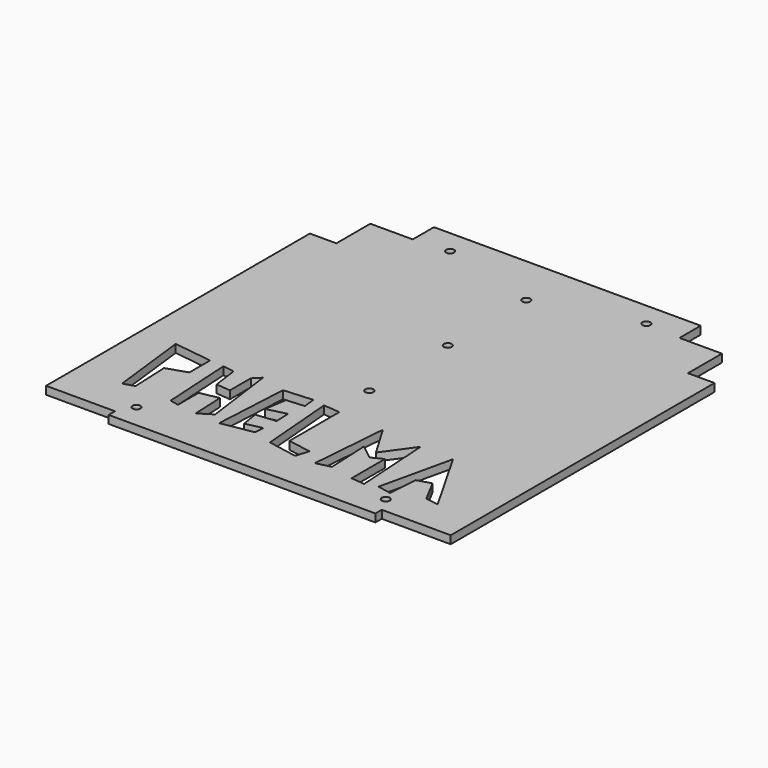
from build123d import *

# Parameters (mm, degrees)
SKETCH_W     = 152.6
SKETCH_H     = 153.35
SKETCH_R     = 1.5
PAD_DEPTH    = 3
SKETCH001_W  = 26
SKETCH001_H  = 3
POCKET_DEPTH = 3.001


with BuildPart() as part:
    # Sketch → Pad (new body)
    with BuildSketch(Plane.XY):
        with Locations((76.3, 76.675)):
            Rectangle(SKETCH_W, SKETCH_H)
        with Locations((76.3, 60)):
            Circle(SKETCH_R, mode=Mode.SUBTRACT)
        with Locations((76.3, 97)):
            Circle(SKETCH_R, mode=Mode.SUBTRACT)
        with Locations((76.3, 134)):
            Circle(SKETCH_R, mode=Mode.SUBTRACT)
        with Locations((29.3, 9)):
            Circle(SKETCH_R, mode=Mode.SUBTRACT)
        with Locations((123.3, 9)):
            Circle(SKETCH_R, mode=Mode.SUBTRACT)
        with Locations((39.3, 144.35)):
            Circle(SKETCH_R, mode=Mode.SUBTRACT)
        with Locations((113.3, 144.35)):
            Circle(SKETCH_R, mode=Mode.SUBTRACT)
        Polygon((16.594608, 18.045477), (13.126014, 47.686184), (27.631041, 45.794216), (27.631041, 36.019093), (20.063204, 33.496487), (20.693857, 19.306786), align=None, mode=Mode.SUBTRACT)
        Polygon((32.997498, 45.404831), (34.546509, 18.555393), (37.902687, 17.780891), (37.902687, 27.591261), (44.873211, 28.882099), (45.389542, 16.748219), (50.294739, 19.84623), (46.680386, 46.953835), (44.098709, 44.372162), (44.098709, 34.561787), (38.677189, 35.078121), (37.386356, 44.630322), align=None, mode=Mode.SUBTRACT)
        Polygon((56.23259, 44.372162), (54.683586, 16.231882), (66.559303, 18.297228), (66.817459, 21.91157), (60.621437, 20.620731), (59.588772, 27.074924), (67.075638, 27.849426), (66.817459, 33.529118), (59.588772, 31.721945), (60.879608, 39.983311), (67.591965, 40.499641), (67.075638, 45.14666), align=None, mode=Mode.SUBTRACT)
        Polygon((71.722649, 44.372162), (74.046158, 15.973718), (85.147362, 13.908373), (86.696373, 18.813559), (77.918671, 20.362566), (77.918671, 43.85582), align=None, mode=Mode.SUBTRACT)
        Polygon((92.634232, 13.908373), (94.957733, 43.081318), (102.444595, 30.431107), (110.447807, 41.532314), (112.254982, 12.617536), (107.091621, 13.133871), (107.091621, 28.882099), (102.960938, 26.816759), (97.28125, 31.205608), (98.055763, 15.19921), align=None, mode=Mode.SUBTRACT)
        Polygon((116.643814, 13.908373), (122.839851, 41.274143), (137.297241, 15.973718), (132.392059, 16.748219), (127.745033, 25.525917), (122.581673, 23.976913), (121.807167, 12.875706), align=None, mode=Mode.SUBTRACT)
    extrude(amount=PAD_DEPTH)

    # Sketch001 → Pocket (cut, through all)
    with BuildSketch(Plane.XY.offset(3)):
        Polygon((0, 153.35), (26, 153.35), (26, 143.35), (10, 143.35), (10, 127.35), (0, 127.35), (0, 146.35), align=None)
        with Locations((13, 1.5)):
            Rectangle(SKETCH001_W, SKETCH001_H)
        Polygon((126.6, 153.35), (152.6, 153.35), (152.6, 146.35), (152.6, 127.35), (142.6, 127.35), (142.6, 143.35), (126.6, 143.35), align=None)
        with Locations((139.6, 1.5)):
            Rectangle(SKETCH001_W, SKETCH001_H)
    extrude(amount=-POCKET_DEPTH, mode=Mode.SUBTRACT)


solid = part.part
